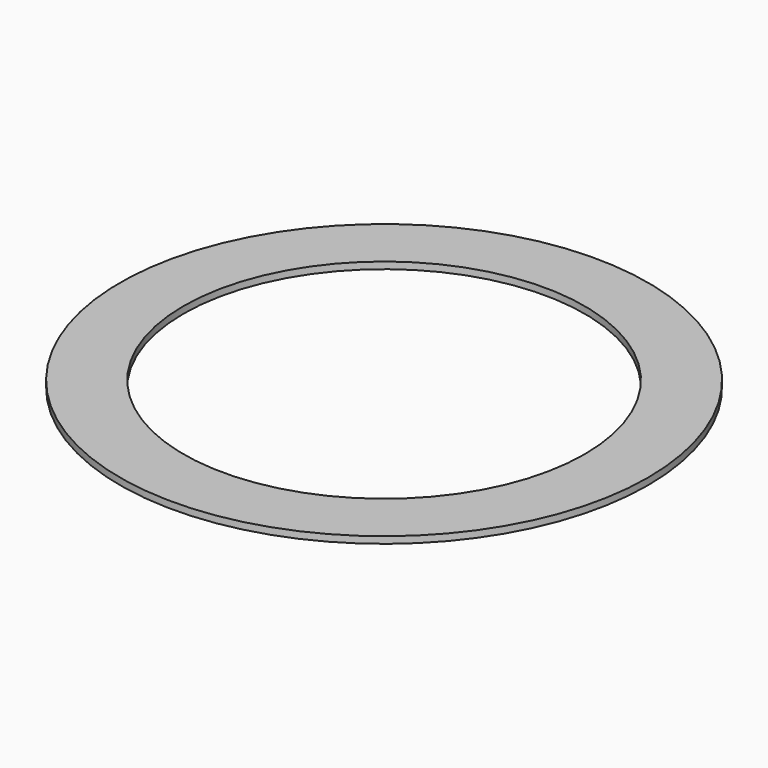
from build123d import *

# Parameters (mm, degrees)
SKETCH079_R           = 62.5
SKETCH079_R_2         = 47.5
PAD055_DEPTH          = 1.6
SKETCH080_W           = 4
SKETCH080_H           = 8
PAD056_DEPTH          = 1.5
POLARPATTERN011_COUNT = 20


with BuildPart() as part:
    # Sketch079 → Pad055 (new body)
    with BuildSketch(Plane.XY):
        Circle(SKETCH079_R)
        Circle(SKETCH079_R_2, mode=Mode.SUBTRACT)
    extrude(amount=PAD055_DEPTH)

    # Sketch080 (on Face3 of Pad055) → Pad056 (join)
    with BuildSketch(Plane(origin=(0, 0, 0), x_dir=(1, 0, 0), z_dir=(0, 0, -1))):
        with Locations((-55, 0)):
            Rectangle(SKETCH080_W, SKETCH080_H)
    pad056 = extrude(amount=PAD056_DEPTH)

    # PolarPattern011: Pad056 ×20 about axis
    polarpattern011_axis = Axis((0, 0, 0), (0, 0, -1))
    for i in range(1, POLARPATTERN011_COUNT):
        add(pad056.rotate(polarpattern011_axis, i * 360 / POLARPATTERN011_COUNT))


with BuildPart() as part_1:
    # Body032 placement: moved
    add(part.part.moved(Location((0, 0, 2))))


solid = part_1.part
